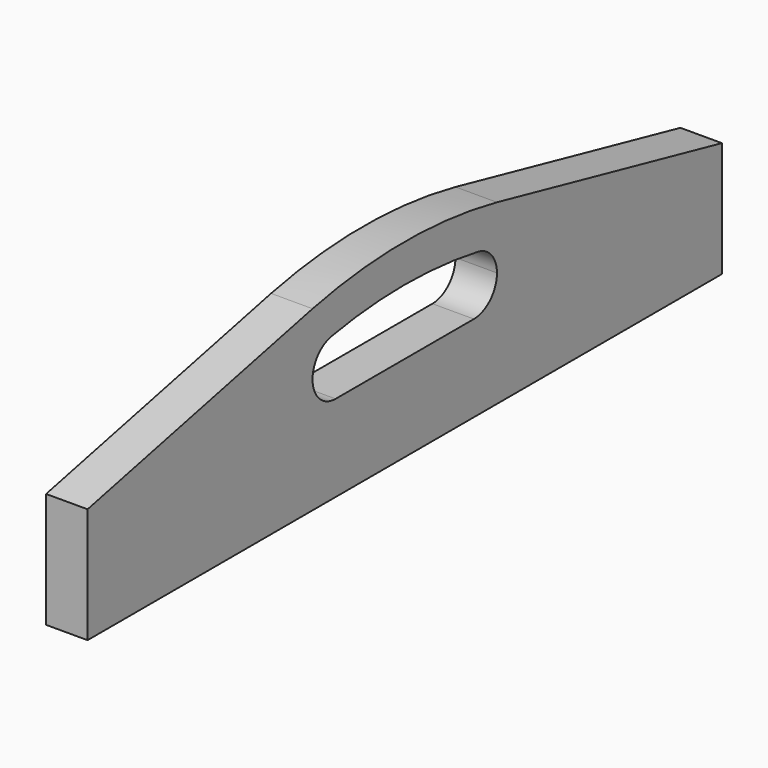
from build123d import *

# Parameters (mm, degrees)
F1_DEPTH = 18
F3_DEPTH = 25


with BuildPart() as f1:
    # F0 (on Right) → F1 (new body)
    with BuildSketch(Plane.YZ):
        with BuildLine():
            Line((0, 50), (0, 0))
            Line((0, 0), (344, 0))
            Line((344, 0), (344, 50))
            Line((344, 50), (222, 77))
            ThreePointArc((222, 77), (172, 82.297018), (122, 77))
            Line((122, 77), (0, 50))
        make_face()
    extrude(amount=F1_DEPTH)

    # F2 (on face) → F3 (cut)
    with BuildSketch(Plane.YZ.offset(18)):
        with BuildLine():
            ThreePointArc((122, 50), (125.661165, 41.161165), (134.5, 37.5))
            Line((134.5, 37.5), (209.5, 37.5))
            ThreePointArc((209.5, 37.5), (218.338835, 41.161165), (222, 50))
            ThreePointArc((222, 50), (219.096716, 58.00956), (211.735512, 62.298475))
            ThreePointArc((211.735512, 62.298475), (172, 65.880518), (132.264488, 62.298475))
            ThreePointArc((132.264488, 62.298475), (124.903284, 58.00956), (122, 50))
        make_face()
    extrude(amount=-F3_DEPTH, mode=Mode.SUBTRACT)


solid = f1.part
